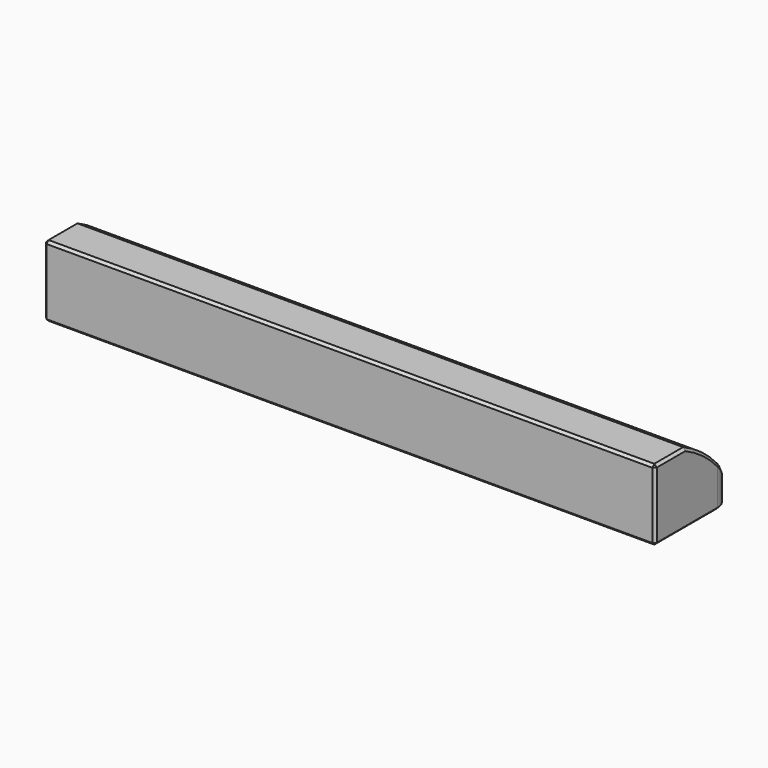
from build123d import *

# Parameters (mm, degrees)
PAD_DEPTH    = 5.7
POCKET_DEPTH = 48.9
CHAMFER_SIZE = 0.2


with BuildPart() as part:
    # Sketch → Pad (new body)
    with BuildSketch(Plane.XY):
        with BuildLine():
            Line((0, 0), (48.9, 0))
            Line((48.9, 0), (48.9, 6.3))
            ThreePointArc((48.9, 6.3), (48.548528, 7.148528), (47.7, 7.5))
            Line((45.7, 7.5), (47.7, 7.5))
            ThreePointArc((44.7, 7.5), (45.2, 7), (45.7, 7.5))
            Line((37.4, 7.5), (44.7, 7.5))
            ThreePointArc((36.4, 7.5), (36.9, 7), (37.4, 7.5))
            Line((29.1, 7.5), (36.4, 7.5))
            ThreePointArc((28.1, 7.5), (28.6, 7), (29.1, 7.5))
            Line((20.8, 7.5), (28.1, 7.5))
            ThreePointArc((19.8, 7.5), (20.3, 7), (20.8, 7.5))
            Line((12.5, 7.5), (19.8, 7.5))
            ThreePointArc((11.5, 7.5), (12, 7), (12.5, 7.5))
            Line((4.2, 7.5), (11.5, 7.5))
            ThreePointArc((3.2, 7.5), (3.7, 7), (4.2, 7.5))
            Line((1.2, 7.5), (3.2, 7.5))
            ThreePointArc((1.2, 7.5), (0.351472, 7.148528), (0, 6.3))
            Line((0, 0), (0, 6.3))
        make_face()
    extrude(amount=PAD_DEPTH)

    # Sketch001 (on Face5 of Pad) → Pocket (cut)
    with BuildSketch(Plane.YZ.offset(48.9)):
        with BuildLine():
            ThreePointArc((8.415971, 0), (5.112438, 4.453311), (0, 6.6))
            Line((0, 6.6), (8.415971, 6.6))
            Line((8.415971, 0), (8.415971, 6.6))
        make_face()
    extrude(amount=-POCKET_DEPTH, mode=Mode.SUBTRACT)

    # Chamfer
    chamfer_edges = [part.edges().sort_by_distance(p)[0] for p in [
        (48.9, 3.15, 0),
        (24.45, 0, 0),
        (0, 3.15, 0),
        (7.85, 7.5, 0),
        (16.15, 7.5, 0),
        (24.45, 7.5, 0),
        (32.75, 7.5, 0),
        (41.05, 7.5, 0),
        (0, 4.804183, 4.686015),
        (7.85, 7.5, 1.813377),
        (16.15, 7.5, 1.813377),
        (24.45, 7.5, 1.813377),
        (32.75, 7.5, 1.813377),
        (41.05, 7.5, 1.813377),
        (46.7, 7.5, 1.813377),
        (24.45, 0, 5.7),
        (48.9, 1.542589, 5.7),
        (0, 1.542589, 5.7),
        (48.9, 4.804183, 4.686015),
        (0, 0, 2.85),
        (48.9, 0, 2.85),
    ]]
    chamfer(chamfer_edges, length=CHAMFER_SIZE)


solid = part.part
